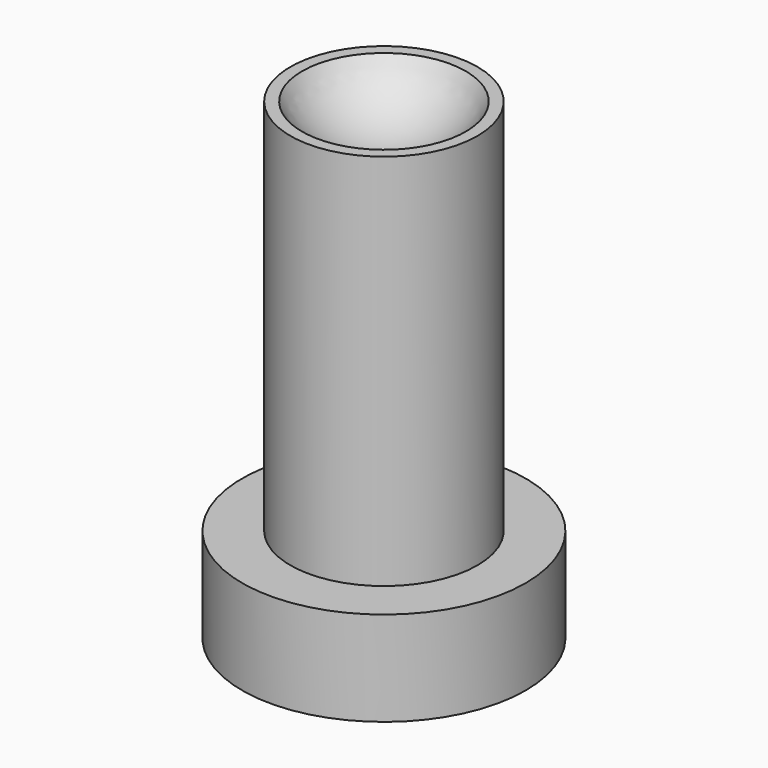
from build123d import *

# Parameters (mm, degrees)
F0_R     = 19.05
F1_DEPTH = 12.7
F2_R     = 12.573
F3_DEPTH = 50.8


with BuildPart() as f1:
    # F0 (on Top) → F1 (new body)
    with BuildSketch(Plane.XY):
        Circle(F0_R)
    extrude(amount=F1_DEPTH)

    # F2 (on face) → F3 (join)
    with BuildSketch(Plane.XY.offset(12.7)):
        Circle(F2_R)
    extrude(amount=F3_DEPTH)

    # F4 (on Right) → F5 (revolve, cut)
    with BuildSketch(Plane.YZ):
        with BuildLine():
            Line((0, 64.979181), (0, 57.15))
            ThreePointArc((0, 57.15), (7.050908, 59.287107), (11.728816, 64.979181))
            Line((11.728816, 64.979181), (0, 64.979181))
        make_face()
    revolve(axis=Axis((0, 0, 61.06459), (0, 0, 1)), mode=Mode.SUBTRACT)


solid = f1.part
